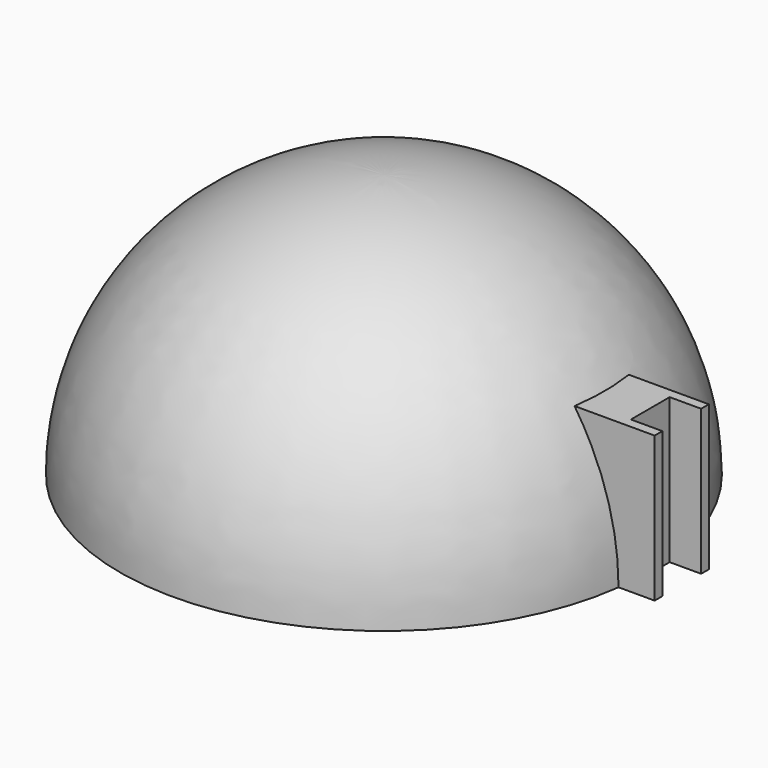
from build123d import *

# Parameters (mm, degrees)
REVOLUTION001_ANGLE = -180
PAD_DEPTH           = 60


with BuildPart() as part:
    # Sketch → Revolution (revolve)
    with BuildSketch(Plane.XZ):
        with BuildLine():
            ThreePointArc((0, 109), (-77.074639, 77.074639), (-109, 0))
            Line((-109, 0), (-106.2, 0))
            ThreePointArc((0, 106.2), (-75.09474, 75.09474), (-106.2, 0))
            Line((0, 109), (0, 106.2))
        make_face()
    revolve(axis=Axis((0, 0, 0), (0, 0, 1)))

    # Sketch001 (on Face2 of Revolution) → Revolution001 (revolve)
    with BuildSketch(Plane(origin=(0, 0, 0), x_dir=(1, 0, 0), z_dir=(0, 0, -1))):
        with BuildLine():
            Line((0, -10), (0, 10))
            Line((0, 10), (-106.3, 10))
            ThreePointArc((-106.3, 10), (-106.769331, 0), (-106.3, -10))
            Line((0, -10), (-106.3, -10))
        make_face()
    revolve(axis=Axis((0, 0, 0), (0, -1, 0)), revolution_arc=REVOLUTION001_ANGLE)

    # Sketch002 (on Face8 of Revolution001) → Pad (new body)
    with BuildSketch(Plane(origin=(0, 0, 0), x_dir=(1, 0, 0), z_dir=(0, 0, -1))):
        Polygon((90, 14), (90, -14), (123, -14), (123, -10), (110, -10), (110, 10), (123, 10), (123, 14), align=None)
    extrude(amount=-PAD_DEPTH)


solid = part.part
